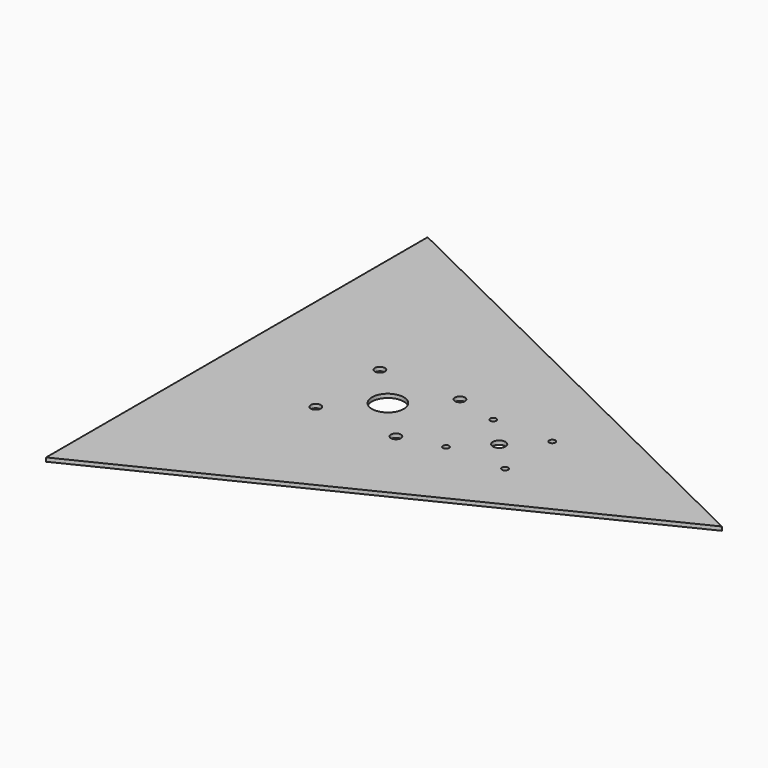
from build123d import *

# Parameters (mm, degrees)
F0_R     = 4.0005
F0_R_2   = 2.4765
F0_R_3   = 12.7
F0_R_4   = 5.08
F1_DEPTH = 3.03784


with BuildPart() as f1:
    # F0 (on Top) → F1 (new body)
    with BuildSketch(Plane.XY):
        Polygon((-97.120928, -190.5), (290.385188, 0), (-97.120928, 190.5), align=None)
        with Locations((-8.474928, -32.004)):
            Circle(F0_R, mode=Mode.SUBTRACT)
        with Locations((55.533072, -32.004)):
            Circle(F0_R, mode=Mode.SUBTRACT)
        with Locations((88.832472, -23.5458)):
            Circle(F0_R_2, mode=Mode.SUBTRACT)
        with Locations((135.974872, -23.5458)):
            Circle(F0_R_2, mode=Mode.SUBTRACT)
        with Locations((-8.474928, 32.004)):
            Circle(F0_R, mode=Mode.SUBTRACT)
        with Locations((23.529072, 0)):
            Circle(F0_R_3, mode=Mode.SUBTRACT)
        with Locations((88.832472, 23.5966)):
            Circle(F0_R_2, mode=Mode.SUBTRACT)
        with Locations((55.533072, 32.004)):
            Circle(F0_R, mode=Mode.SUBTRACT)
        with Locations((112.429072, 0)):
            Circle(F0_R_4, mode=Mode.SUBTRACT)
        with Locations((135.974872, 23.5966)):
            Circle(F0_R_2, mode=Mode.SUBTRACT)
    extrude(amount=F1_DEPTH)


solid = f1.part
